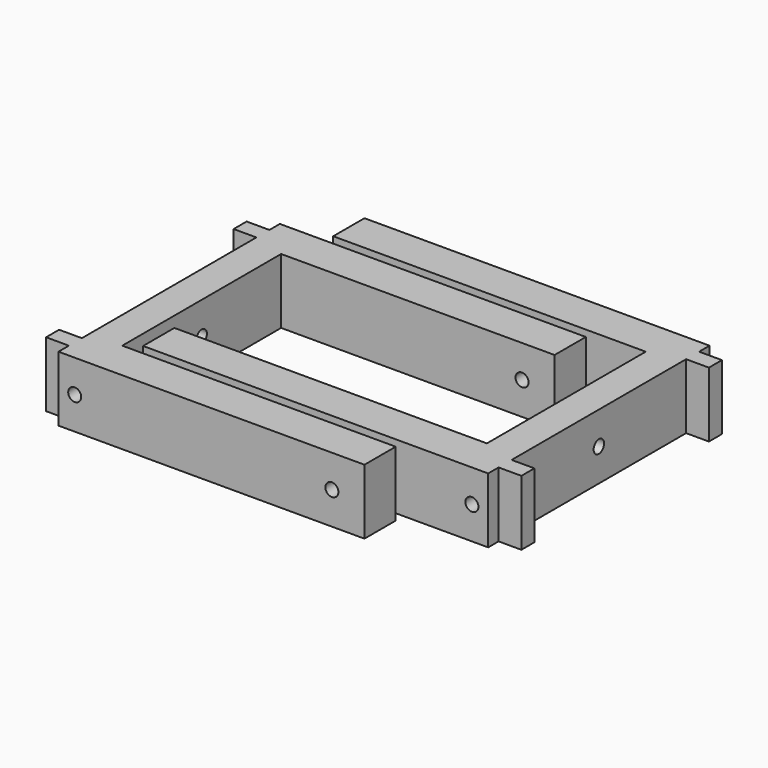
from build123d import *

# Parameters (mm, degrees)
PAD_DEPTH       = 20
SKETCH004_R     = 2
POCKET002_DEPTH = 94.001
SKETCH005_R     = 2
POCKET003_DEPTH = 85.001
PAD001_DEPTH    = 20
SKETCH007_R     = 2
POCKET004_DEPTH = 106.001
SKETCH008_R     = 2
POCKET005_DEPTH = 85.001


with BuildPart() as soporte_agujero_superior_lateral:
    # Sketch → Pad (new body)
    with BuildSketch(Plane.XY):
        Polygon((-10, -42.5), (84, -42.5), (84, -30.5), (0, -30.5), (0, 30.5), (84, 30.5), (84, 42.5), (-10, 42.5), (-10, 38.5), (-17, 38.5), (-17, 33.5), (-10, 33.5), (-10, -33.5), (-17, -33.5), (-17, -38.5), (-10, -38.5), align=None)
    extrude(amount=PAD_DEPTH)

    # Sketch004 → Pocket002 (cut, through all)
    with BuildSketch(Plane(origin=(-10, 0, 0), x_dir=(0, -1, 0), z_dir=(-1, 0, 0))):
        with Locations((0, 10)):
            Circle(SKETCH004_R)
    extrude(amount=-POCKET002_DEPTH, mode=Mode.SUBTRACT)

    # Sketch005 → Pocket003 (cut, through all)
    with BuildSketch(Plane.XZ.offset(42.5)):
        with Locations((-5, 10)):
            Circle(SKETCH005_R)
        with Locations((74, 10)):
            Circle(SKETCH005_R)
    extrude(amount=-POCKET003_DEPTH, mode=Mode.SUBTRACT)


with BuildPart() as soporte_agujero_superior_lateral001:
    # Sketch006 → Pad001 (new body)
    with BuildSketch(Plane(origin=(100, 15, 0), x_dir=(-1, 0, 0), z_dir=(0, 0, 1))):
        Polygon((-10, -42.5), (96, -42.5), (96, -30.5), (0, -30.5), (0, 30.5), (96, 30.5), (96, 42.5), (-10, 42.5), (-10, 38.5), (-17, 38.5), (-17, 33.5), (-10, 33.5), (-10, -33.5), (-17, -33.5), (-17, -38.5), (-10, -38.5), align=None)
    extrude(amount=PAD001_DEPTH)

    # Sketch007 → Pocket004 (cut, through all)
    with BuildSketch(Plane(origin=(110, 15, 0), x_dir=(0, 1, 0), z_dir=(1, 0, 0))):
        with Locations((0, 10)):
            Circle(SKETCH007_R)
    extrude(amount=-POCKET004_DEPTH, mode=Mode.SUBTRACT)

    # Sketch008 → Pocket005 (cut, through all)
    with BuildSketch(Plane(origin=(100, 57.5, 0), x_dir=(-1, 0, 0), z_dir=(0, 1, 0))):
        with Locations((-5, 10)):
            Circle(SKETCH008_R)
        with Locations((86, 10)):
            Circle(SKETCH008_R)
    extrude(amount=-POCKET005_DEPTH, mode=Mode.SUBTRACT)


solid = Compound([soporte_agujero_superior_lateral.part, soporte_agujero_superior_lateral001.part])
